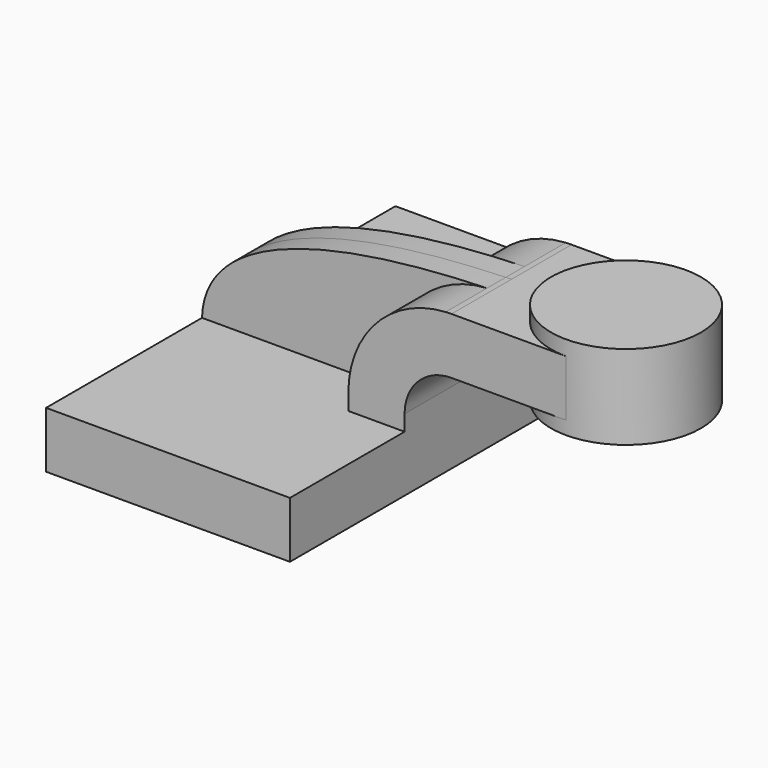
from build123d import *

# Parameters (mm, degrees)
F1_DEPTH      = 73.914
F1_DEPTH_BACK = 73.914
F2_DEPTH      = 7.9375
F3_DEPTH      = 25.4


with BuildPart() as f1:
    # F0 (on Front) → F1 (new body, two sides)
    with BuildSketch(Plane.XZ) as f1_sk:
        Polygon((-41.275, 9.525), (-41.275, -9.525), (41.275, -9.525), (41.275, 9.525), (22.225, 9.525), align=None)
    extrude(amount=F1_DEPTH)
    extrude(f1_sk.sketch, amount=-F1_DEPTH_BACK)

    # F0 (on Front) → F2 (join, symmetric)
    with BuildSketch(Plane.XZ):
        with BuildLine():
            add(Edge.make_bspline(
                [(-41.275, 9.525), (-40.226812, 42.592709), (20.461641, 48.679743), (55.192691, 49.732862)],
                knots=[0, 0, 0, 0, 104.352522, 104.352522, 104.352522, 104.352522], degree=3))
            Line((-41.275, 9.525), (22.225, 9.525))
            Line((22.225, 9.525), (22.225, 14.862752))
            ThreePointArc((22.225, 14.862752), (31.771716, 38.856466), (55.192691, 49.732862))
        make_face()
    extrude(amount=F2_DEPTH, both=True)

    # F0 (on Front) → F3 (join, symmetric)
    with BuildSketch(Plane.XZ):
        Polygon((89.471519, 49.787752), (70.500782, 49.787752), (70.500782, 30.737752), (89.471519, 30.737752), (95.900782, 30.737752), (95.900782, 49.787752), align=None)
        with BuildLine():
            Line((22.225, 9.525), (41.275, 9.525))
            Line((41.275, 9.525), (41.275, 14.862752))
            ThreePointArc((41.275, 14.862752), (45.92468, 26.088072), (57.15, 30.737752))
            Line((57.15, 30.737752), (70.500782, 30.737752))
            Line((70.500782, 30.737752), (70.500782, 49.787752))
            Line((70.500782, 49.787752), (57.15, 49.787752))
            add(Edge.make_bspline(
                [(55.192691, 49.732862), (55.854758, 49.752937), (56.507392, 49.771183), (57.15, 49.787752)],
                knots=[104.352522, 104.352522, 104.352522, 104.352522, 106.34176, 106.34176, 106.34176, 106.34176], degree=3))
            ThreePointArc((55.192691, 49.732862), (31.771716, 38.856466), (22.225, 14.862752))
            Line((22.225, 14.862752), (22.225, 9.525))
        make_face()
    extrude(amount=F3_DEPTH, both=True)

    # F0 (on Front) → F4 (revolve)
    with BuildSketch(Plane.XZ):
        Polygon((121.300782, 54.816952), (95.900782, 54.816952), (95.900782, 49.787752), (95.900782, 30.737752), (95.900782, 26.241952), (121.300782, 26.241952), align=None)
    revolve(axis=Axis((95.900782, 0, 40.529452), (0, 0, -1)))


solid = f1.part
